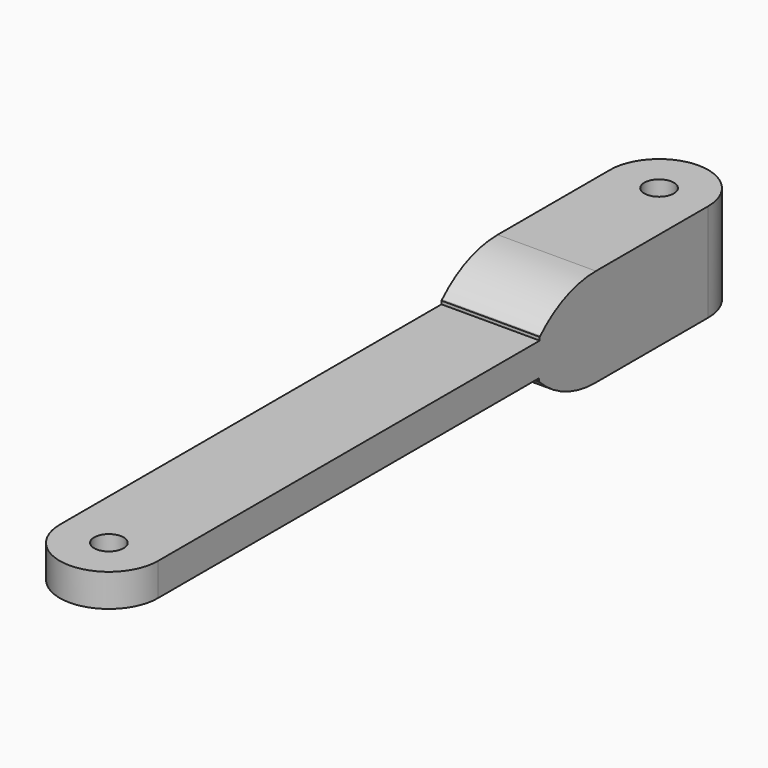
from build123d import *

# Parameters (mm, degrees)
F0_R     = 1.5
F1_DEPTH = 3.33
F3_R     = 1.5
F4_DEPTH = 3.33
F2_R     = 1.5
F5_DEPTH = 3.33
F6_SIZE  = 3
F7_R     = 10
F8_SIZE  = 3
F9_R     = 10


with BuildPart() as f1:
    # F0 (on Top) → F1 (new body)
    with BuildSketch(Plane.XY):
        with BuildLine():
            ThreePointArc((-5, -35), (0, -40), (5, -35))
            Line((5, -35), (5, 35))
            ThreePointArc((5, 35), (0, 40), (-5, 35))
            Line((-5, 35), (-5, -35))
        make_face()
        with Locations((0, -35)):
            Circle(F0_R, mode=Mode.SUBTRACT)
        with Locations((0, 35)):
            Circle(F0_R, mode=Mode.SUBTRACT)
    extrude(amount=F1_DEPTH)

    # F3 (on face) → F4 (join)
    with BuildSketch(Plane(origin=(0, 0, 0), x_dir=(1, 0, 0), z_dir=(0, 0, -1))):
        with BuildLine():
            Line((5, -35), (5, -13.4968720376))
            Line((5, -13.4968720376), (-5, -13.4968720376))
            Line((-5, -13.4968720376), (-5, -35))
            ThreePointArc((-5, -35), (0, -40), (5, -35))
        make_face()
        with Locations((0, -35)):
            Circle(F3_R, mode=Mode.SUBTRACT)
    extrude(amount=F4_DEPTH)

    # F2 (on face) → F5 (join)
    with BuildSketch(Plane.XY.offset(3.33)):
        with BuildLine():
            Line((-5, 35), (-5, 13.5650867596))
            Line((-5, 13.5650867596), (5, 13.5650867596))
            Line((5, 13.5650867596), (5, 35))
            ThreePointArc((5, 35), (0, 40), (-5, 35))
        make_face()
        with Locations((0, 35)):
            Circle(F2_R, mode=Mode.SUBTRACT)
    extrude(amount=F5_DEPTH)

    # F6
    f6_edges = [f1.edges().sort_by_distance(p)[0] for p in [
        (0, 13.565087, 6.66),
    ]]
    chamfer(f6_edges, length=F6_SIZE)

    # F7
    f7_edges = [f1.edges().sort_by_distance(p)[0] for p in [
        (0, 16.565087, 6.66),
    ]]
    fillet(f7_edges, radius=F7_R)

    # F8
    f8_edges = [f1.edges().sort_by_distance(p)[0] for p in [
        (0, 13.496872, -3.33),
    ]]
    chamfer(f8_edges, length=F8_SIZE)

    # F9
    f9_edges = [f1.edges().sort_by_distance(p)[0] for p in [
        (0, 16.496872, -3.33),
    ]]
    fillet(f9_edges, radius=F9_R)


solid = f1.part
